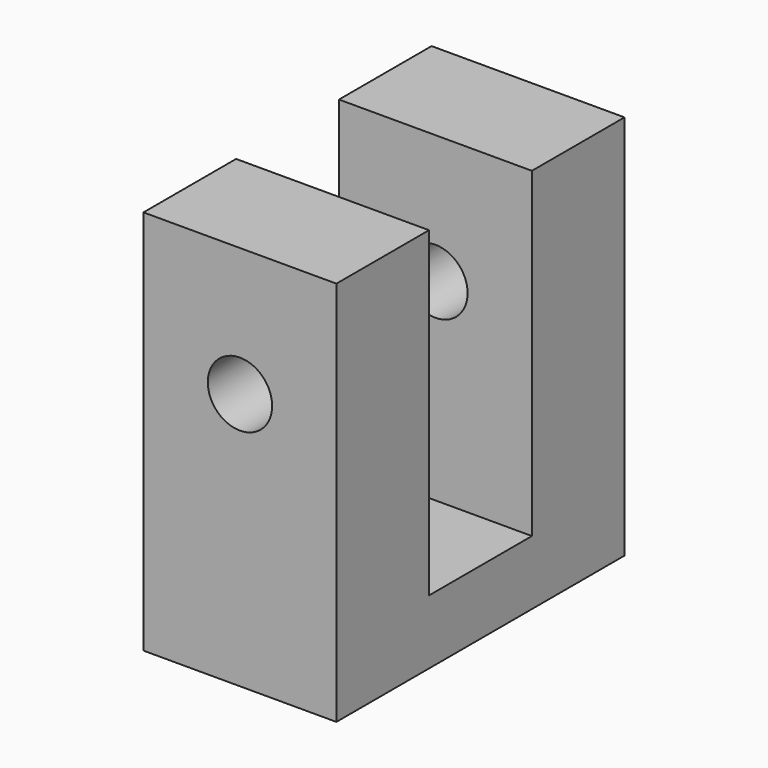
from build123d import *

# Parameters (mm, degrees)
F1_DEPTH = 9.525
F3_D     = 6.35
F3_DEPTH = 12.7
F3_TIP   = 1.9077324654
F4_R     = 3.175
F5_DEPTH = 35.561


with BuildPart() as f1:
    # F0 (on Right) → F1 (new body, symmetric)
    with BuildSketch(Plane.YZ):
        Polygon((-6.35, 12.7), (-17.78, 12.7), (-17.78, -25.4), (0, -25.4), (17.78, -25.4), (17.78, 12.7), (6.35, 12.7), (6.35, -19.05), (0, -19.05), (-6.35, -19.05), align=None)
    extrude(amount=F1_DEPTH, both=True)

    # F3
    with Locations(Plane(origin=(0, 0, -25.4), x_dir=(1, 0, 0), z_dir=(0, 0, -1))):
        with Locations((3.175, 13.0048), (3.175, -13.0048)):
            Hole(F3_D / 2, depth=F3_DEPTH)
            with Locations((0, 0, -(F3_DEPTH + F3_TIP / 2))):  # 118° drill point
                Cone(0, F3_D / 2, F3_TIP, mode=Mode.SUBTRACT)

    # F4 (on face) → F5 (cut, through all)
    with BuildSketch(Plane.XZ.offset(17.78)):
        Circle(F4_R)
    extrude(amount=-F5_DEPTH, mode=Mode.SUBTRACT)


solid = f1.part
